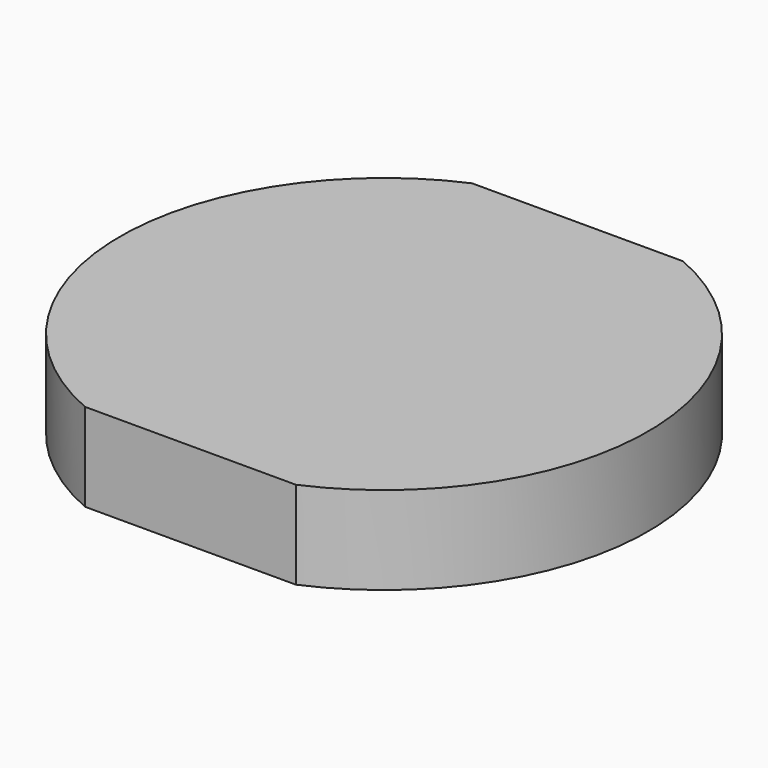
from build123d import *

# Parameters (mm, degrees)
PAD_DEPTH = 2


with BuildPart() as part:
    # Sketch → Pad (new body)
    with BuildSketch(Plane.XY):
        with BuildLine():
            Line((-2.397916, 5.5), (2.397916, 5.5))
            ThreePointArc((2.397916, -5.5), (6, 0), (2.397916, 5.5))
            Line((-2.397916, -5.5), (2.397916, -5.5))
            ThreePointArc((-2.397916, 5.5), (-6, 0), (-2.397916, -5.5))
        make_face()
    extrude(amount=PAD_DEPTH)


solid = part.part
